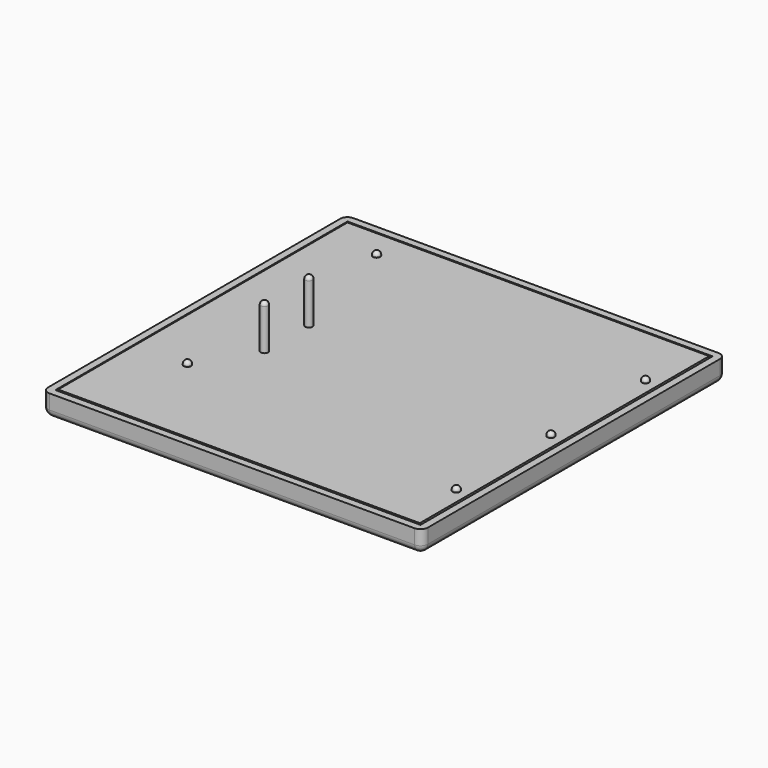
from build123d import *

# Parameters (mm, degrees)
SKETCH_W     = 99.067
SKETCH_H     = 99.067
PAD_DEPTH    = 1.75
SKETCH001_R  = 1.27
PAD001_DEPTH = 2
SKETCH002_W  = 100
SKETCH002_H  = 100
PAD002_DEPTH = 4
THICKNESS_T  = 2
SKETCH003_R  = 1
PAD003_DEPTH = 5
SKETCH004_R  = 1
PAD004_DEPTH = 16
FILLET_R     = 1
FILLET001_R  = 1.5


with BuildPart() as pcb:
    # Sketch → Pad (new body)
    with BuildSketch(Plane.XY):
        with Locations((49.5335, -49.5335)):
            Rectangle(SKETCH_W, SKETCH_H)
    extrude(amount=PAD_DEPTH)

    # Sketch001 → Pad001 (join)
    with BuildSketch(Plane.XY):
        with Locations((5.08, -5.08)):
            Circle(SKETCH001_R)
        with Locations((27.305, -5.08)):
            Circle(SKETCH001_R)
        with Locations((49.53, -5.08)):
            Circle(SKETCH001_R)
        with Locations((71.755, -5.08)):
            Circle(SKETCH001_R)
        with Locations((93.98, -5.08)):
            Circle(SKETCH001_R)
        with Locations((5.08, -27.305)):
            Circle(SKETCH001_R)
        with Locations((27.305, -27.305)):
            Circle(SKETCH001_R)
        with Locations((49.53, -27.305)):
            Circle(SKETCH001_R)
        with Locations((71.755, -27.305)):
            Circle(SKETCH001_R)
        with Locations((93.98, -27.305)):
            Circle(SKETCH001_R)
        with Locations((5.08, -49.53)):
            Circle(SKETCH001_R)
        with Locations((27.305, -49.53)):
            Circle(SKETCH001_R)
        with Locations((49.53, -49.53)):
            Circle(SKETCH001_R)
        with Locations((71.755, -49.53)):
            Circle(SKETCH001_R)
        with Locations((93.98, -49.53)):
            Circle(SKETCH001_R)
        with Locations((5.08, -71.755)):
            Circle(SKETCH001_R)
        with Locations((27.305, -71.755)):
            Circle(SKETCH001_R)
        with Locations((49.53, -71.755)):
            Circle(SKETCH001_R)
        with Locations((71.755, -71.755)):
            Circle(SKETCH001_R)
        with Locations((93.98, -71.755)):
            Circle(SKETCH001_R)
        with Locations((5.08, -93.98)):
            Circle(SKETCH001_R)
        with Locations((27.305, -93.98)):
            Circle(SKETCH001_R)
        with Locations((49.53, -93.98)):
            Circle(SKETCH001_R)
        with Locations((71.755, -93.98)):
            Circle(SKETCH001_R)
        with Locations((93.98, -93.98)):
            Circle(SKETCH001_R)
    extrude(amount=-PAD001_DEPTH)


with BuildPart() as body001:
    # Sketch002 → Pad002 (new body)
    with BuildSketch(Plane.XY):
        with Locations((50, -50)):
            Rectangle(SKETCH002_W, SKETCH002_H)
    extrude(amount=PAD002_DEPTH)

    # Thickness
    thickness_openings = [body001.faces().sort_by_distance(p)[0] for p in [
        (50, -50, 4),
    ]]
    offset(amount=THICKNESS_T, openings=thickness_openings)

    # Sketch003 → Pad003 (join)
    with BuildSketch(Plane.XY):
        with Locations((14.438, -8.087)):
            Circle(SKETCH003_R)
        with Locations((95.723, -17.613)):
            Circle(SKETCH003_R)
        with Locations((95.723, -50)):
            Circle(SKETCH003_R)
        with Locations((95.723, -82.387)):
            Circle(SKETCH003_R)
        with Locations((14.438, -72.861)):
            Circle(SKETCH003_R)
    extrude(amount=PAD003_DEPTH)

    # Sketch004 → Pad004 (join)
    with BuildSketch(Plane.XY):
        with Locations((23.328, -42.38)):
            Circle(SKETCH004_R)
        with Locations((23.328, -57.62)):
            Circle(SKETCH004_R)
    extrude(amount=PAD004_DEPTH)

    # Fillet
    fillet_edges = [body001.edges().sort_by_distance(p)[0] for p in [
        (22.328, -57.62, 16),
        (22.328, -42.38, 16),
        (13.438, -8.087, 5),
        (13.438, -72.861, 5),
        (94.723, -82.387, 5),
        (94.723, -50, 5),
        (94.723, -17.613, 5),
    ]]
    fillet(fillet_edges, radius=FILLET_R)

    # Fillet001
    fillet001_edges = [body001.edges().sort_by_distance(p)[0] for p in [
        (50, 0, 0),
        (0, -50, 0),
        (100, -50, 0),
        (50, -100, 0),
        (94.723, -17.613, 0),
        (94.723, -50, 0),
        (13.438, -72.861, 0),
        (22.328, -42.38, 0),
        (22.328, -57.62, 0),
        (94.723, -82.387, 0),
        (13.438, -8.087, 0),
    ]]
    fillet(fillet001_edges, radius=FILLET001_R)


with BuildPart() as body001_1:
    # Body001 placement: moved
    add(body001.part.moved(Location((0, 0, -2))))


solid = Compound([pcb.part, body001_1.part])
